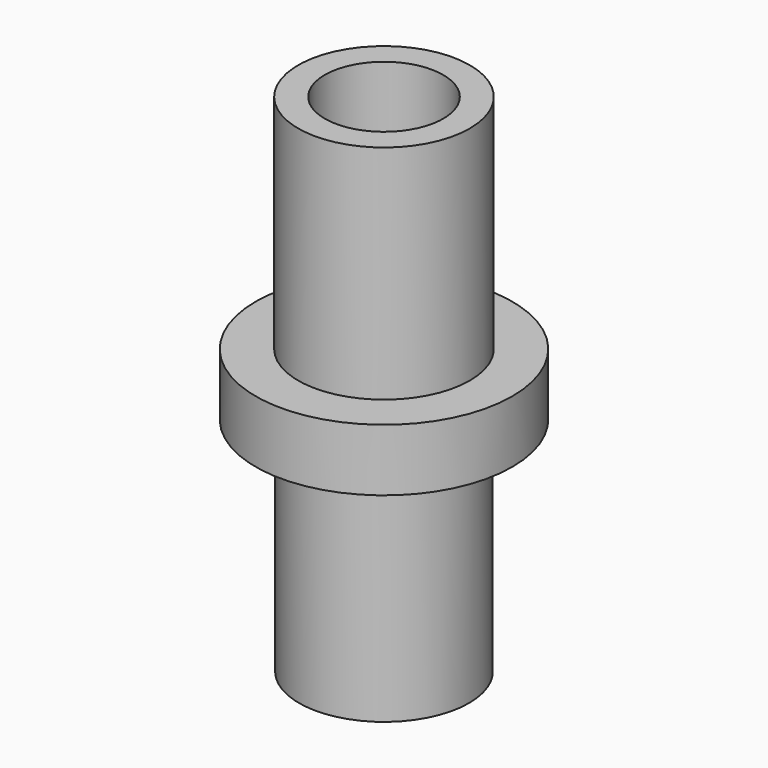
from build123d import *

# Parameters (mm, degrees)
F0_R      = 9.817303
F1_DEPTH  = 25.4
F3_R      = 6.778938
F4_DEPTH  = 25.4
F5_R      = 14.680473
F6_DEPTH  = 7.112
F7_R      = 9.730781
F8_DEPTH  = 25.4
F9_R      = 6.676703
F10_DEPTH = 92.456
F11_D     = 13.55852


with BuildPart() as f1:
    # F0 (on Top) → F1 (new body)
    with BuildSketch(Plane.XY):
        Circle(F0_R)
    extrude(amount=F1_DEPTH)

    # F3 (on face) → F4 (cut)
    with BuildSketch(Plane.XY.offset(25.4)):
        Circle(F3_R)
    extrude(amount=-F4_DEPTH, mode=Mode.SUBTRACT)

    # F5 (on Top) → F6 (join)
    with BuildSketch(Plane.XY):
        Circle(F5_R)
    extrude(amount=-F6_DEPTH)

    # F7 (on face) → F8 (join)
    with BuildSketch(Plane(origin=(0, 0, -7.112), x_dir=(1, 0, 0), z_dir=(0, 0, -1))):
        Circle(F7_R)
    extrude(amount=F8_DEPTH)

    # F9 (on face) → F10 (join)
    with BuildSketch(Plane(origin=(0, 0, -32.512), x_dir=(1, 0, 0), z_dir=(0, 0, -1))):
        Circle(F9_R)
    extrude(amount=-F10_DEPTH)

    # F11 (through all)
    with Locations(Plane(origin=(0, 0, -32.512), x_dir=(1, 0, 0), z_dir=(0, 0, -1))):
        with Locations((0, 0)):
            Hole(F11_D / 2)


solid = f1.part
